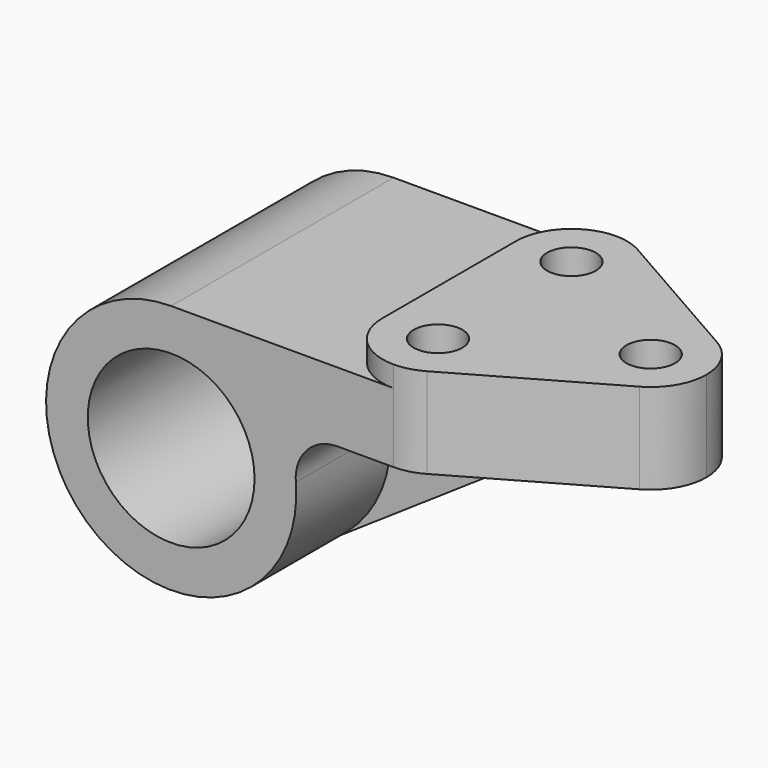
from build123d import *

# Parameters (mm, degrees)
F1_DEPTH = 4.7625
F0_R     = 19.05
F2_DEPTH = 31.75
F4_DEPTH = 61.9262
F5_DEPTH = 4.7752
F3_R     = 5.5626
F6_DEPTH = 61.9262


with BuildPart() as f1:
    # F0 (on Front) → F1 (new body, symmetric)
    with BuildSketch(Plane.XZ):
        with BuildLine():
            ThreePointArc((28.4756083945, 2.38125), (25.7719232537, -12.3425522809), (15.9950252975, -23.6788891364))
            Line((15.9950252975, -23.6788891364), (69.85, 12.7))
            Line((69.85, 12.7), (37.9674778593, 12.7))
            ThreePointArc((37.9674778593, 12.7), (30.9572676717, 9.6234554837), (28.4756083945, 2.38125))
        make_face()
    extrude(amount=F1_DEPTH, both=True)

    # F0 (on Front) → F2 (join, symmetric)
    with BuildSketch(Plane.XZ):
        with BuildLine():
            Line((38.1, 28.575), (0, 28.575))
            ThreePointArc((0, 28.575), (-27.3235693319, -8.3638020041), (15.9950252975, -23.6788891364))
            ThreePointArc((15.9950252975, -23.6788891364), (25.7719232537, -12.3425522809), (28.4756083945, 2.38125))
            ThreePointArc((28.4756083945, 2.38125), (30.9572676717, 9.6234554837), (37.9674778593, 12.7))
            Line((37.9674778593, 12.7), (69.85, 12.7))
            Line((69.85, 12.7), (96.8502, 12.7))
            Line((96.8502, 12.7), (96.8502, 33.3502))
            Line((96.8502, 33.3502), (38.1, 33.3502))
            Line((38.1, 33.3502), (38.1, 28.575))
        make_face()
        Circle(F0_R, mode=Mode.SUBTRACT)
    extrude(amount=F2_DEPTH, both=True)

    # F3 (on face) → F4 (cut, through all)
    with BuildSketch(Plane.XY.offset(33.3502)):
        with BuildLine():
            ThreePointArc((90.4493554441, 11.0277214642), (95.1340352623, 6.3753715915), (96.8502, 0))
            Line((96.8502, 0), (96.8502, 31.75))
            Line((96.8502, 31.75), (50.8, 31.75))
            ThreePointArc((50.8, 31.75), (54.0586759125, 31.3248128824), (57.0991554441, 30.0777214642))
            Line((57.0991554441, 30.0777214642), (90.4493554441, 11.0277214642))
        make_face()
        with BuildLine():
            ThreePointArc((57.0991554441, -30.0777214642), (54.0586759125, -31.3248128824), (50.8, -31.75))
            Line((50.8, -31.75), (96.8502, -31.75))
            Line((96.8502, -31.75), (96.8502, 0))
            ThreePointArc((96.8502, 0), (95.1340352623, -6.3753715915), (90.4493554441, -11.0277214642))
            Line((90.4493554441, -11.0277214642), (57.0991554441, -30.0777214642))
        make_face()
    extrude(amount=-F4_DEPTH, mode=Mode.SUBTRACT)

    # F3 (on face) → F5 (cut)
    with BuildSketch(Plane.XY.offset(33.3502)):
        with BuildLine():
            Line((38.1, -19.05), (38.1, -31.75))
            Line((38.1, -31.75), (50.8, -31.75))
            ThreePointArc((50.8, -31.75), (41.8197438789, -28.0302561211), (38.1, -19.05))
        make_face()
        with BuildLine():
            Line((38.1, 31.75), (38.1, 19.05))
            ThreePointArc((38.1, 19.05), (41.8197438789, 28.0302561211), (50.8, 31.75))
            Line((50.8, 31.75), (38.1, 31.75))
        make_face()
    extrude(amount=-F5_DEPTH, mode=Mode.SUBTRACT)

    # F3 (on face) → F6 (cut, through all)
    with BuildSketch(Plane.XY.offset(33.3502)):
        with Locations((50.8, 19.05)):
            Circle(F3_R)
        with Locations((50.8, -19.05)):
            Circle(F3_R)
        with BuildLine():
            Line((89.7128, 0), (78.5876, 0))
            ThreePointArc((78.5876, 0), (84.1502, -5.5626), (89.7128, 0))
        make_face()
        with BuildLine():
            ThreePointArc((89.7128, 0), (84.1502, 5.5626), (78.5876, 0))
            Line((78.5876, 0), (89.7128, 0))
        make_face()
    extrude(amount=-F6_DEPTH, mode=Mode.SUBTRACT)


solid = f1.part
